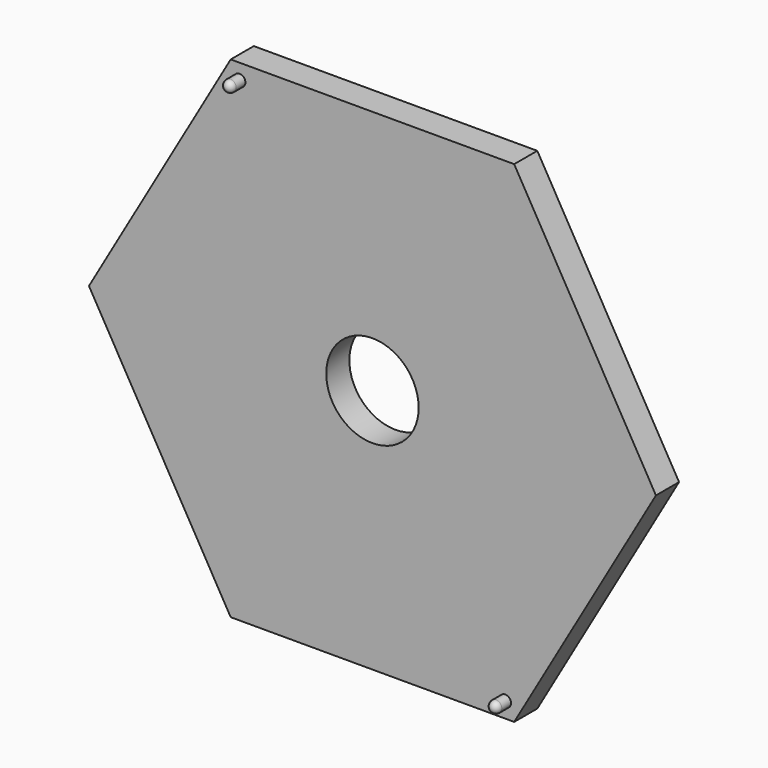
from build123d import *

# Parameters (mm, degrees)
F1_DEPTH = 5
F2_R     = 8
F3_DEPTH = 5
F6_R     = 1
F7_DEPTH = 3
F8_R     = 1


with BuildPart() as f1:
    # F0 (on Front) → F1 (new body)
    with BuildSketch(Plane.XZ):
        Polygon((24.537386, -42.5), (49.074773, 0), (24.537386, 42.5), (-24.537386, 42.5), (-49.074773, 0), (-24.537386, -42.5), align=None)
    extrude(amount=F1_DEPTH)

    # F2 (on face) → F3 (cut)
    with BuildSketch(Plane.XZ.offset(5)):
        Circle(F2_R)
    extrude(amount=-F3_DEPTH, mode=Mode.SUBTRACT)

    # F6 (on face) → F7 (join)
    with BuildSketch(Plane.XZ.offset(5)):
        with Locations((-22.990381, 39.820508)):
            Circle(F6_R)
        with Locations((22.990381, -39.820508)):
            Circle(F6_R)
    extrude(amount=F7_DEPTH)

    # F8
    f8_edges = [f1.edges().sort_by_distance(p)[0] for p in [
        (-23.990381, -8, 39.820508),
        (21.990381, -8, -39.820508),
    ]]
    fillet(f8_edges, radius=F8_R)


solid = f1.part
